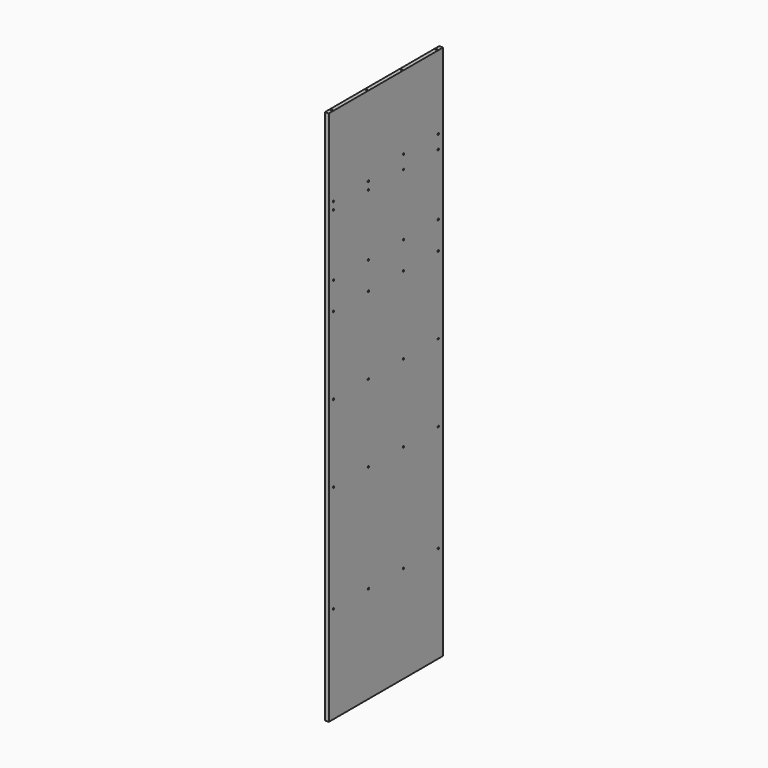
from build123d import *

# Parameters (mm, degrees)
F0_W           = 600
F0_H           = 2250
F1_DEPTH       = 8
F3_D           = 5
F3_DEPTH       = 35
F3_CSINK_D     = 7
F3_CSINK_ANGLE = 90
F3_TIP         = 1.5021515476
F5_D           = 7


with BuildPart() as f1:
    # F0 (on Right) → F1 (new body, symmetric)
    with BuildSketch(Plane.YZ):
        Rectangle(F0_W, F0_H)
    extrude(amount=F1_DEPTH, both=True)

    # F3
    with Locations(Plane.XY.offset(1125)):
        with Locations((0, 275), (0, 92), (0, -92), (0, -275)):
            CounterSinkHole(F3_D / 2, F3_CSINK_D / 2, depth=F3_DEPTH, counter_sink_angle=F3_CSINK_ANGLE)
            with Locations((0, 0, -(F3_DEPTH + F3_TIP / 2))):  # 118° drill point
                Cone(0, F3_D / 2, F3_TIP, mode=Mode.SUBTRACT)

    # F5 (through all)
    with Locations(Plane(origin=(-8, 0, 0), x_dir=(0, -1, 0), z_dir=(-1, 0, 0))):
        with Locations((-275, 815), (-92, 815), (92, 790), (275, 790), (275, 758), (92, 758), (-92, 758), (-275, 758), (-275, 499), (-92, 499), (92, 499), (275, 499), (275, 383), (92, 383), (-92, 383), (-275, 383), (-275, 58), (-92, 58), (92, 58), (275, 58), (275, -267), (92, -267), (-92, -267), (-275, -267), (-275, -717), (-92, -717), (92, -717), (275, -717)):
            Hole(F5_D / 2)


solid = f1.part
